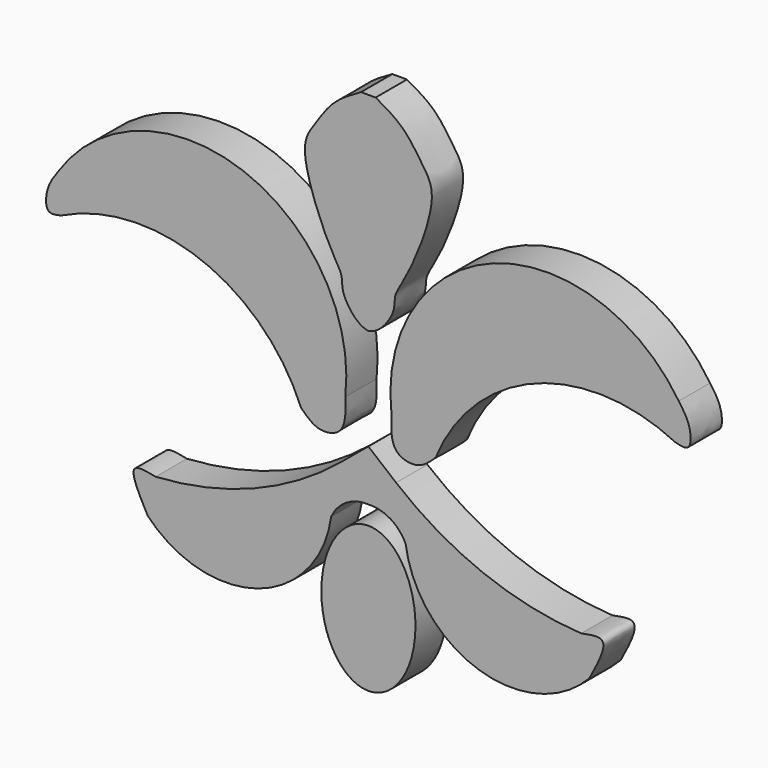
from build123d import *

# Parameters (mm, degrees)
F1_DEPTH = 2


with BuildPart() as f1:
    # F0 (on Front) → F1 (new body)
    with BuildSketch(Plane.XZ):
        with BuildLine():
            ThreePointArc((-18.0919896811, -55.2291944623), (-10.9458235901, -54.8965303051), (-5.8318637311, -59.8991066217))
            add(Edge.make_bspline(
                [(-3.5705678165, -58.6713254452), (-3.5496082749, -59.2859355832), (-3.5111098077, -60.4148509372), (-4.9889583016, -60.732946334), (-5.5499172433, -60.1780206851), (-5.8318637311, -59.8991066217)],
                knots=[0, 0, 0, 0, 0.3728007809, 0.6847601421, 1, 1, 1, 1], degree=3))
            ThreePointArc((-3.5705678165, -58.6713254452), (-8.8006084463, -50.1880485591), (-18.2629041374, -53.3160306513))
            add(Edge.make_bspline(
                [(-18.2629041374, -53.3160306513), (-18.4697846701, -53.6013179281), (-18.8711867665, -54.1548495216), (-18.9327157142, -55.4390173228), (-18.3541098992, -55.2946126982), (-18.0919896811, -55.2291944623)],
                knots=[0, 0, 0, 0, 0.3677816877, 0.7135922288, 1, 1, 1, 1], degree=3))
        make_face()
    extrude(amount=F1_DEPTH)


with BuildPart() as f1b:
    # F0 (on Front) → F1, piece 2 (new body)
    with BuildSketch(Plane.XZ):
        with BuildLine():
            ThreePointArc((8.4956283298, -65.3960779309), (3.4673185055, -64.2956643723), (-0.9710662217, -61.688836664))
            Line((-0.9710662217, -61.688836664), (-2.3906983761, -60.5198784534))
            Line((-2.3906983761, -60.5198784534), (-3.8076553843, -61.6920779196))
            ThreePointArc((-3.8076553843, -61.6920779196), (-8.2400710963, -64.3090419325), (-13.2658529971, -65.4209438947))
            add(Edge.make_bspline(
                [(-13.2658529971, -65.4209438947), (-13.7398833858, -65.3238484522), (-14.8566959584, -65.095092209), (-14.1091456657, -66.4969594875), (-13.678892621, -67.3038050882)],
                knots=[0, 0, 0, 0, 0.4244493662, 1, 1, 1, 1], degree=3))
            ThreePointArc((-13.678892621, -67.3038050882), (-8.0402203766, -68.7543854385), (-4.2908993589, -64.3000168033))
            ThreePointArc((-4.2908993589, -64.3000168033), (-3.5200603549, -63.4208150699), (-2.3877167061, -63.1292909384))
            ThreePointArc((-2.3877167061, -63.1292909384), (-1.2547097894, -63.4182265455), (-0.4818635445, -64.2956643723))
            ThreePointArc((-0.4818635445, -64.2956643723), (3.2776273226, -68.7414529921), (8.9129698079, -67.2779902816))
            add(Edge.make_bspline(
                [(8.4956283298, -65.3960779309), (8.9694355868, -65.2978994327), (10.0857224628, -65.0665915171), (9.341377832, -66.4701635237), (8.9129698079, -67.2779902816)],
                knots=[0, 0, 0, 0, 0.4244493662, 1, 1, 1, 1], degree=3))
        make_face()
    extrude(amount=F1_DEPTH)


with BuildPart() as f1c:
    # F0 (on Front) → F1, piece 3 (new body)
    with BuildSketch(Plane.XZ):
        with BuildLine():
            Line((-2.3906983761, -44.6919649839), (-2.7647726238, -44.6919649839))
            add(Edge.make_bspline(
                [(-2.7647726238, -44.6919649839), (-3.2641099199, -44.9733404241), (-4.2443981266, -45.5257306178), (-5.121654191, -46.9205636641), (-6.0799012484, -48.1854359933), (-4.4324907097, -52.2525460687), (-3.6707774763, -53.2190479357), (-3.7986865588, -54.0331424262), (-3.0539579851, -55.098790223), (-2.5597081239, -55.2870226826), (-2.3906983761, -55.3307562244)],
                knots=[0, 0, 0, 0, 0.1324221084, 0.2599682262, 0.3830802944, 0.5914580326, 0.7038529671, 0.7902455452, 0.9079807609, 0.9693365425, 0.9693365425, 0.9693365425, 0.9693365425], degree=3))
            Line((-2.3906983761, -55.3307562244), (-2.3906983761, -44.6919649839))
        make_face()
        with BuildLine():
            Line((-2.3906983761, -44.6919649839), (-2.3906983761, -55.3307562244))
            add(Edge.make_bspline(
                [(-2.0166241284, -44.6919649839), (-1.5172868323, -44.9733404241), (-0.5369986255, -45.5257306178), (0.3402574388, -46.9205636641), (1.2985044962, -48.1854359933), (-0.3489060424, -52.2525460687), (-1.1106192759, -53.2190479357), (-0.9827101934, -54.0331424262), (-1.727438767, -55.098790223), (-2.2216886283, -55.2870226826), (-2.3906983761, -55.3307562244)],
                knots=[0, 0, 0, 0, 0.1324221084, 0.2599682262, 0.3830802944, 0.5914580326, 0.7038529671, 0.7902455452, 0.9079807609, 0.9693365425, 0.9693365425, 0.9693365425, 0.9693365425], degree=3))
            Line((-2.0166241284, -44.6919649839), (-2.3906983761, -44.6919649839))
        make_face()
    extrude(amount=F1_DEPTH)


with BuildPart() as f1d:
    # F0 (on Front) → F1, piece 4 (new body)
    with BuildSketch(Plane.XZ):
        with BuildLine():
            add(Edge.make_bspline(
                [(-2.3877167061, -64.0883594751), (-6.5580815108, -64.0883594751), (-4.4728991084, -69.663643837), (-2.3877167061, -75.2389281988), (-0.3025343037, -69.663643837), (1.7826480987, -64.0883594751), (-2.3877167061, -64.0883594751)],
                knots=[0, 0, 0, 2.0943951024, 2.0943951024, 4.1887902048, 4.1887902048, 6.2831853072, 6.2831853072, 6.2831853072], degree=2, weights=[1, 0.5, 1, 0.5, 1, 0.5, 1]))
        make_face()
    extrude(amount=F1_DEPTH)


with BuildPart() as f1e:
    # F0 (on Front) → F1, piece 5 (new body)
    with BuildSketch(Plane.XZ):
        with BuildLine():
            add(Edge.make_bspline(
                [(13.4815073852, -53.3160306513), (13.688387918, -53.6013179281), (14.0897900144, -54.1548495216), (14.1513189621, -55.4390173228), (13.5727131471, -55.2946126982), (13.310592929, -55.2291944623)],
                knots=[0, 0, 0, 0, 0.3677816877, 0.7135922288, 1, 1, 1, 1], degree=3))
            ThreePointArc((13.4815073852, -53.3160306513), (4.0192116942, -50.1880485591), (-1.2108289356, -58.6713254452))
            add(Edge.make_bspline(
                [(-1.2108289356, -58.6713254452), (-1.2317884772, -59.2859355832), (-1.2702869445, -60.4148509372), (0.2075615495, -60.732946334), (0.7685204911, -60.1780206851), (1.050466979, -59.8991066217)],
                knots=[0, 0, 0, 0, 0.3728007809, 0.6847601421, 1, 1, 1, 1], degree=3))
            ThreePointArc((1.050466979, -59.8991066217), (6.1644268379, -54.8965303051), (13.310592929, -55.2291944623))
        make_face()
    extrude(amount=F1_DEPTH)


solid = Compound([f1.part, f1b.part, f1c.part, f1d.part, f1e.part])
